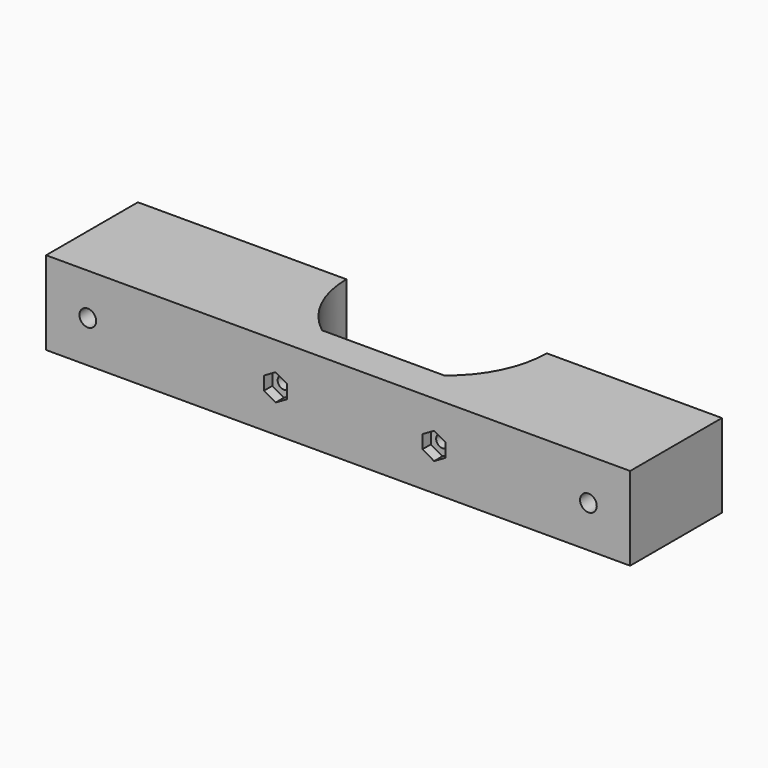
from build123d import *

# Parameters (mm, degrees)
PAD002_DEPTH              = 2.5
CYLINDER005_R             = 2.8
CYLINDER005_DEPTH         = 15
CYLINDER004_R             = 1.5
CYLINDER004_DEPTH         = 8.5
FUSION002_PLACEMENT_ANGLE = 90
PAD001_DEPTH              = 2.5
CYLINDER003_R             = 2.8
CYLINDER003_DEPTH         = 15
CYLINDER002_R             = 1.5
CYLINDER002_DEPTH         = 8.5
FUSION001_PLACEMENT_ANGLE = 90
CYLINDER001_R             = 2
CYLINDER001_DEPTH         = 27.5
CYLINDER_R                = 2
CYLINDER_DEPTH            = 27.5
PAD_DEPTH                 = 10


with BuildPart() as body002:
    # Sketch002 → Pad002 (new body)
    with BuildSketch(Plane.XY):
        Polygon((0, -3.2), (2.771281, -1.6), (2.771281, 1.6), (0, 3.2), (-2.771281, 1.6), (-2.771281, -1.6), align=None)
    extrude(amount=PAD002_DEPTH)


with BuildPart() as cylinder005:
    # Cylinder005 → Cylinder005 (new body)
    with BuildSketch(Plane.XY.offset(5.5)):
        Circle(CYLINDER005_R)
    extrude(amount=CYLINDER005_DEPTH)


with BuildPart() as fusion002:
    # Cylinder004 → Cylinder004 (new body)
    with BuildSketch(Plane.XY):
        Circle(CYLINDER004_R)
    extrude(amount=CYLINDER004_DEPTH)

    # Fusion002: union Body002, Cylinder005
    add(body002.part)
    add(cylinder005.part)


with BuildPart() as fusion002_1:
    # Fusion002 placement: moved
    add(fusion002.part.moved(Location((93, 0, 0))).rotate(Axis((93, 0, 0), (-1, 0, 0)), FUSION002_PLACEMENT_ANGLE))


with BuildPart() as body001:
    # Sketch001 → Pad001 (new body)
    with BuildSketch(Plane.XY):
        Polygon((0, -3.2), (2.771281, -1.6), (2.771281, 1.6), (0, 3.2), (-2.771281, 1.6), (-2.771281, -1.6), align=None)
    extrude(amount=PAD001_DEPTH)


with BuildPart() as cylinder003:
    # Cylinder003 → Cylinder003 (new body)
    with BuildSketch(Plane.XY.offset(5.5)):
        Circle(CYLINDER003_R)
    extrude(amount=CYLINDER003_DEPTH)


with BuildPart() as fusion003:
    # Cylinder002 → Cylinder002 (new body)
    with BuildSketch(Plane.XY):
        Circle(CYLINDER002_R)
    extrude(amount=CYLINDER002_DEPTH)

    # Fusion001: union Body001, Cylinder003
    add(body001.part)
    add(cylinder003.part)


with BuildPart() as fusion003_1:
    # Fusion001 placement: moved
    add(fusion003.part.moved(Location((55, 0, 0))).rotate(Axis((55, 0, 0), (-1, 0, 0)), FUSION001_PLACEMENT_ANGLE))

    # Fusion003: union Fusion002
    add(fusion002_1.part)


with BuildPart() as cylinder001:
    # Cylinder001 → Cylinder001 (new body)
    with BuildSketch(Plane(origin=(130, 0, 0), x_dir=(1, 0, 0), z_dir=(0, 1, 0))):
        Circle(CYLINDER001_R)
    extrude(amount=CYLINDER001_DEPTH)


with BuildPart() as fusion:
    # Cylinder → Cylinder (new body)
    with BuildSketch(Plane(origin=(10, 0, 0), x_dir=(1, 0, 0), z_dir=(0, 1, 0))):
        Circle(CYLINDER_R)
    extrude(amount=CYLINDER_DEPTH)

    # Fusion: union Cylinder001
    add(cylinder001.part)


with BuildPart() as cut001:
    # Sketch (on Sketch) → Pad (new body, symmetric)
    with BuildSketch(Plane.XY):
        with BuildLine():
            Line((140, 0), (0, 0))
            Line((0, 0), (0, 27.499991))
            Line((0, 27.499991), (50, 27.499991))
            ThreePointArc((50, 27.499991), (52.460398, 16.914843), (59.337122, 8.5))
            Line((59.337122, 8.5), (88.662878, 8.5))
            ThreePointArc((88.662878, 8.5), (95.539604, 16.914847), (98, 27.5))
            Line((140, 27.5), (98, 27.5))
            Line((140, 27.5), (140, 0))
        make_face()
    extrude(amount=PAD_DEPTH, both=True)

    # Cut: cut Fusion
    add(fusion.part, mode=Mode.SUBTRACT)

    # Cut001: cut Fusion003
    add(fusion003_1.part, mode=Mode.SUBTRACT)


solid = cut001.part
